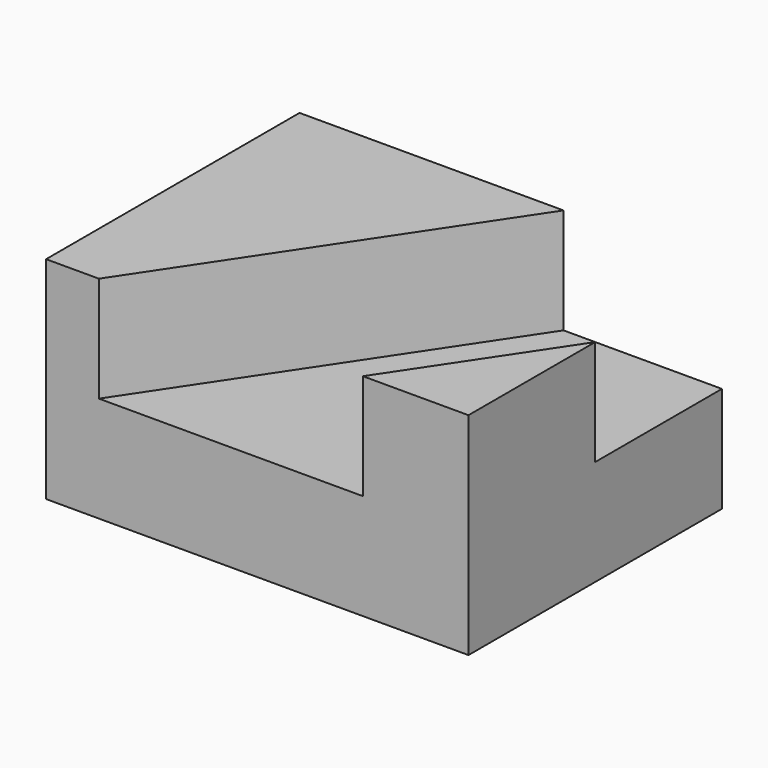
from build123d import *

# Parameters (mm, degrees)
F1_DEPTH = 25.4
F2_DEPTH = 25.4


with BuildPart() as f1:
    # F0 (on Top) → F1 (new body)
    with BuildSketch(Plane.XY):
        Polygon((-0.948164, 37.635726), (-64.448164, 37.635726), (-64.448164, -38.564274), (-51.748164, -38.564274), align=None)
        Polygon((37.151836, -0.464274), (11.751836, -38.564274), (37.151836, -38.564274), align=None)
        Polygon((37.151836, 37.635726), (-0.948164, 37.635726), (-51.748164, -38.564274), (11.751836, -38.564274), (37.151836, -0.464274), align=None)
    extrude(amount=-F1_DEPTH)

    # F0 (on Top) → F2 (join)
    with BuildSketch(Plane.XY):
        Polygon((37.151836, -0.464274), (11.751836, -38.564274), (37.151836, -38.564274), align=None)
        Polygon((-0.948164, 37.635726), (-64.448164, 37.635726), (-64.448164, -38.564274), (-51.748164, -38.564274), align=None)
    extrude(amount=F2_DEPTH)


solid = f1.part
